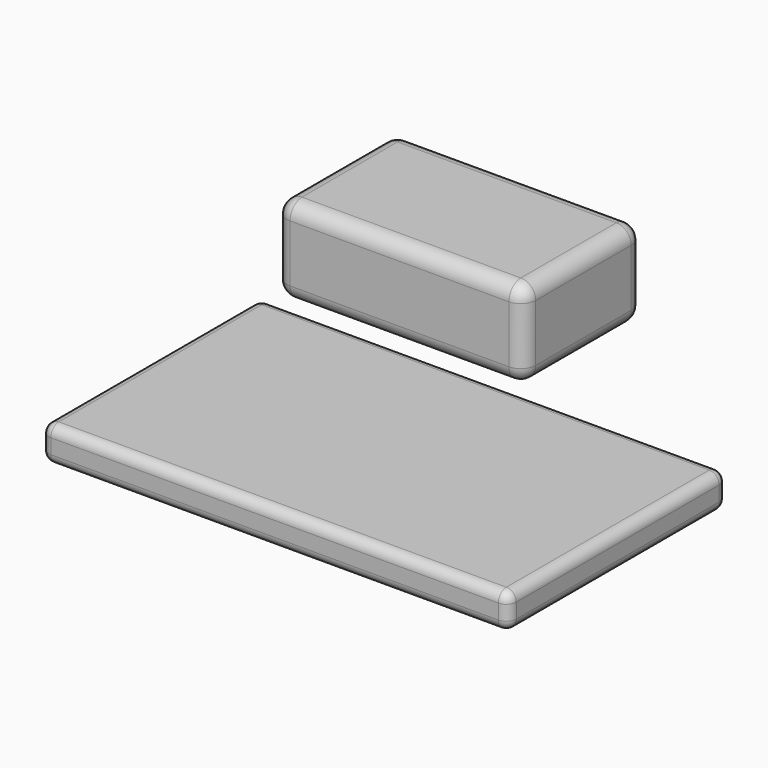
from build123d import *

# Parameters (mm, degrees)
F0_W     = 50
F0_H     = 30
F1_DEPTH = 17.5
F2_R     = 3
F3_W     = 94
F3_H     = 55
F4_DEPTH = 7
F5_R     = 2


with BuildPart() as f1:
    # F0 (on Top) → F1 (new body)
    with BuildSketch(Plane.XY):
        Rectangle(F0_W, F0_H)
    extrude(amount=F1_DEPTH)

    # F2
    f2_edges = [f1.edges().sort_by_distance(p)[0] for p in [
        (0, -15, 17.5),
        (25, 0, 17.5),
        (0, 15, 17.5),
        (-25, 0, 17.5),
        (-25, -15, 8.75),
        (25, -15, 8.75),
        (0, -15, 0),
        (25, 0, 0),
        (0, 15, 0),
        (-25, 0, 0),
        (25, 15, 8.75),
        (-25, 15, 8.75),
    ]]
    fillet(f2_edges, radius=F2_R)


with BuildPart() as f4:
    # F3 (on Top) → F4 (new body)
    with BuildSketch(Plane.XY):
        with Locations((28.320593, -54.28942)):
            Rectangle(F3_W, F3_H)
    extrude(amount=F4_DEPTH)

    # F5
    f5_edges = [f4.edges().sort_by_distance(p)[0] for p in [
        (28.320593, -81.78942, 7),
        (28.320593, -81.78942, 0),
        (28.320593, -26.78942, 0),
        (28.320593, -26.78942, 7),
        (75.320593, -26.78942, 3.5),
        (75.320593, -81.78942, 3.5),
        (75.320593, -54.28942, 7),
        (75.320593, -54.28942, 0),
        (-18.679407, -54.28942, 7),
        (-18.679407, -54.28942, 0),
        (-18.679407, -26.78942, 3.5),
        (-18.679407, -81.78942, 3.5),
    ]]
    fillet(f5_edges, radius=F5_R)


solid = Compound([f1.part, f4.part])
